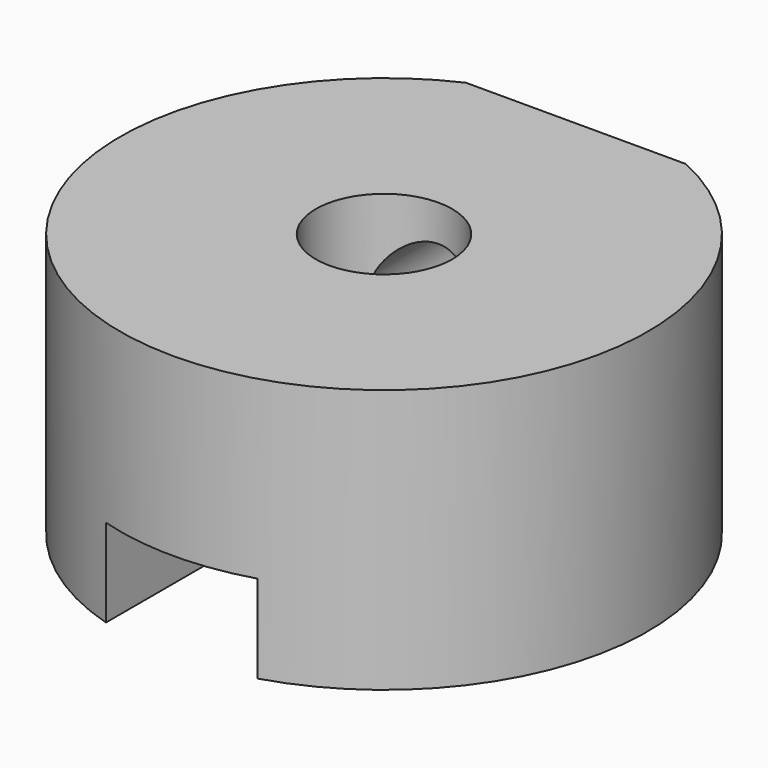
from build123d import *

# Parameters (mm, degrees)
PAD125_DEPTH    = 4
SKETCH248_R     = 12
PAD126_DEPTH    = 12
POCKET089_DEPTH = 8
SKETCH249_R     = 3.1
POCKET090_DEPTH = 12.001
SKETCH250_R     = 2.35
POCKET091_DEPTH = 12.001
SKETCH251_W     = 10
SKETCH251_H     = 6.070738
POCKET092_DEPTH = 12.001


with BuildPart() as part:
    # Sketch247 → Pad125 (new body)
    with BuildSketch(Plane.XY):
        Polygon((-3.45, 2), (-3.45, 18.25), (3.45, 18.25), (3.45, 2), (9.95, 2), (9.95, -2), (3.45, -2), (3.45, -18.25), (-3.45, -18.25), (-3.45, -2), (-9.95, -2), (-9.95, 2), align=None)
    extrude(amount=PAD125_DEPTH)

    # Sketch248 (on Face14 of Pad125) → Pad126 (join)
    with BuildSketch(Plane.XY.offset(4)):
        Circle(SKETCH248_R)
    extrude(amount=PAD126_DEPTH)

    # Pad126 Face4 → Pocket089 (cut)
    with BuildSketch(Plane(origin=(0, 0, 0), x_dir=(0, -1, 0), z_dir=(0, 0, -1))):
        Polygon((-2, 3.45), (-18.25, 3.45), (-18.25, -3.45), (-2, -3.45), (-2, -9.95), (2, -9.95), (2, -3.45), (18.25, -3.45), (18.25, 3.45), (2, 3.45), (2, 9.95), (-2, 9.95), align=None)
    extrude(amount=-POCKET089_DEPTH, mode=Mode.SUBTRACT)

    # Sketch249 (on Face9 of Pocket089) → Pocket090 (cut, through all)
    with BuildSketch(Plane.XY.offset(16)):
        Circle(SKETCH249_R)
    extrude(amount=-POCKET090_DEPTH, mode=Mode.SUBTRACT)

    # Sketch250 → Pocket091 (cut, through all)
    with BuildSketch(Plane.XZ):
        with Locations((0, 12)):
            Circle(SKETCH250_R)
    extrude(amount=-POCKET091_DEPTH, mode=Mode.SUBTRACT)

    # Sketch251 (on Face12 of Pocket091) → Pocket092 (cut, through all)
    with BuildSketch(Plane.XY.offset(16)):
        with Locations((0, 13.944081)):
            Rectangle(SKETCH251_W, SKETCH251_H)
    extrude(amount=-POCKET092_DEPTH, mode=Mode.SUBTRACT)


with BuildPart() as part_1:
    # Body142 placement: moved
    add(part.part.moved(Location((0, -90, 0))))


solid = part_1.part
